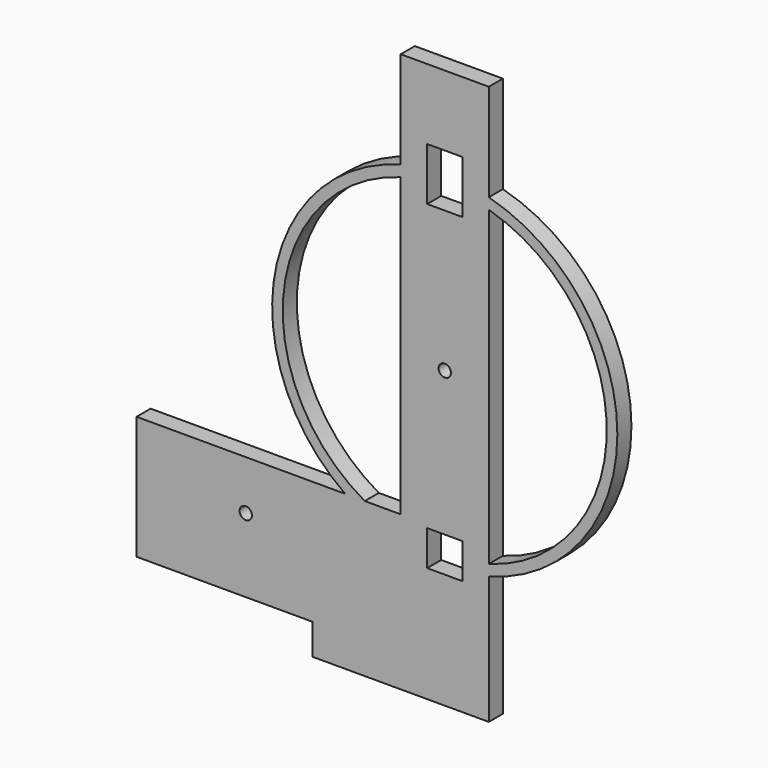
from build123d import *

# Parameters (mm, degrees)
F1_DEPTH = 10
F2_R     = 98
F2_R_2   = 92
F3_DEPTH = 10
F4_W     = 100
F4_H     = 10
F5_DEPTH = 17.5
F6_W     = 20
F6_H     = 20
F6_H_2   = 30
F6_R     = 3.5
F7_DEPTH = 10


with BuildPart() as f1:
    # F0 (on Front) → F1 (new body)
    with BuildSketch(Plane.XZ):
        Polygon((25, 150), (-25, 150), (-25, -80), (-175, -80), (-175, -150), (25, -150), align=None)
    extrude(amount=F1_DEPTH)

    # F2 (on face) → F3 (join)
    with BuildSketch(Plane.XZ.offset(10)):
        Circle(F2_R)
        Circle(F2_R_2, mode=Mode.SUBTRACT)
    extrude(amount=-F3_DEPTH)

    # F4 (on face) → F5 (join)
    with BuildSketch(Plane(origin=(0, 0, -150), x_dir=(1, 0, 0), z_dir=(0, 0, -1))):
        with Locations((-25, 5)):
            Rectangle(F4_W, F4_H)
    extrude(amount=F5_DEPTH)

    # F6 (on face) → F7 (cut)
    with BuildSketch(Plane.XZ.offset(10)):
        with Locations((0, -92)):
            Rectangle(F6_W, F6_H)
        with Locations((0, 95)):
            Rectangle(F6_W, F6_H_2)
        Circle(F6_R)
        with Locations((-113, -108)):
            Circle(F6_R)
    extrude(amount=-F7_DEPTH, mode=Mode.SUBTRACT)


solid = f1.part
